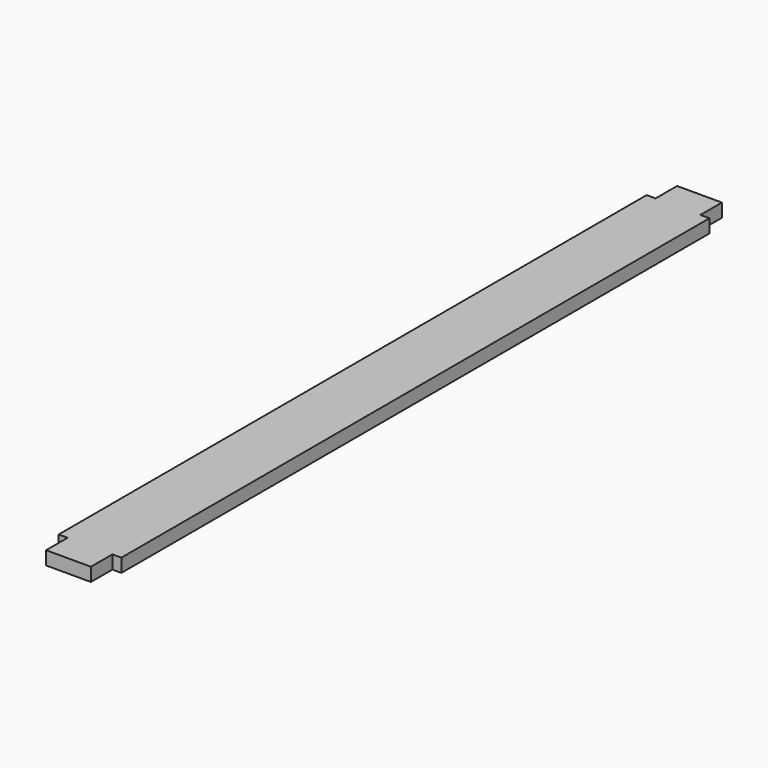
from build123d import *

# Parameters (mm, degrees)
F0_W     = 88.9
F0_H     = 19.05
F1_DEPTH = 1041.4
F2_W     = 63.5
F2_H     = 19.05
F3_DEPTH = 38.1
F4_W     = 63.5
F4_H     = 19.05
F5_DEPTH = 38.1


with BuildPart() as f1:
    # F0 (on Front) → F1 (new body)
    with BuildSketch(Plane.XZ):
        with Locations((44.45, 9.525)):
            Rectangle(F0_W, F0_H)
    extrude(amount=-F1_DEPTH)

    # F2 (on face) → F3 (join)
    with BuildSketch(Plane.XZ):
        with Locations((44.45, 9.525)):
            Rectangle(F2_W, F2_H)
    extrude(amount=F3_DEPTH)

    # F4 (on face) → F5 (join)
    with BuildSketch(Plane(origin=(0, 1041.4, 0), x_dir=(-1, 0, 0), z_dir=(0, 1, 0))):
        with Locations((-44.45, 9.525)):
            Rectangle(F4_W, F4_H)
    extrude(amount=F5_DEPTH)


solid = f1.part
